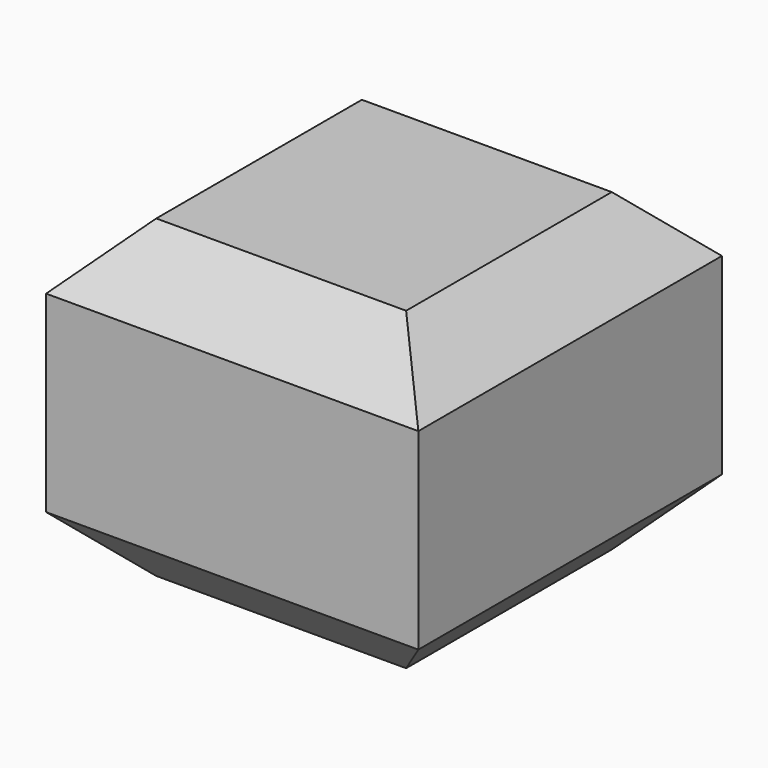
from build123d import *

# Parameters (mm, degrees)
F0_W     = 61.803307
F0_H     = 52.249301
F1_DEPTH = 62.992
F2_SIZE  = 10.16
F4_DEPTH = 25.4
F5_DEPTH = 25.4


with BuildPart() as f1:
    # F0 (on Front) → F1 (new body)
    with BuildSketch(Plane.XZ):
        with Locations((30.901653, 26.12465)):
            Rectangle(F0_W, F0_H)
    extrude(amount=F1_DEPTH)

    # F2
    f2_edges = [f1.edges().sort_by_distance(p)[0] for p in [
        (61.803307, -31.496, 52.249301),
        (30.901654, -62.992, 52.249301),
        (30.901654, 0, 52.249301),
        (0, -31.496, 52.249301),
        (61.803307, -31.496, 0),
        (30.901654, -62.992, 0),
        (0, -31.496, 0),
        (30.901654, 0, 0),
    ]]
    chamfer(f2_edges, length=F2_SIZE)

    # F3 (on face) → F4 (cut)
    with BuildSketch(Plane(origin=(0, 0, 0), x_dir=(0, -1, 0), z_dir=(-1, 0, 0))):
        Polygon((44.386065, 25.559946), (35.33958, 36.628512), (22.017231, 31.445169), (22.83005, 17.173121), (36.65475, 13.535852), align=None)
    extrude(amount=-F4_DEPTH, mode=Mode.SUBTRACT)


with BuildPart() as f5:
    # F4_face (on face) → F5 (new body)
    with BuildSketch(Plane(origin=(25.4, -32.245535, 24.86852), x_dir=(0, -1, 0), z_dir=(-1, 0, 0))):
        Polygon((12.14053, 0.691426), (3.094045, 11.759992), (-10.228305, 6.576649), (-9.415485, -7.695399), (4.409215, -11.332668), align=None)
    extrude(amount=F5_DEPTH)


solid = Compound([f1.part, f5.part])
